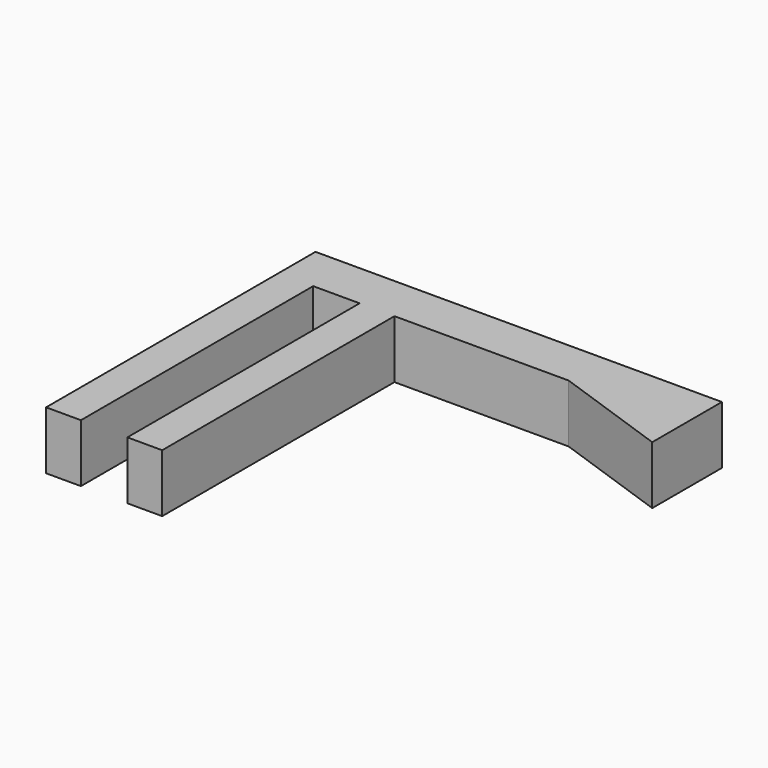
from build123d import *

# Parameters (mm, degrees)
F0_W     = 6
F0_H     = 50
F1_DEPTH = 10


with BuildPart() as f1:
    # F0 (on Top) → F1 (new body)
    with BuildSketch(Plane.XY):
        Polygon((-19.455582, 33.734061), (-19.455582, 25.734061), (-13.455582, 25.734061), (-5.455582, 25.734061), (0.544418, 25.734061), (30.544418, 25.734061), (50.544418, 18.734061), (50.544418, 33.734061), align=None)
        with Locations((-16.455582, 0.734061)):
            Rectangle(F0_W, F0_H)
        with Locations((-2.455582, 0.734061)):
            Rectangle(F0_W, F0_H)
    extrude(amount=F1_DEPTH)


with BuildPart() as f2_1:
    # F2: copy of F1
    add(f1.part)


solid = f1.part
